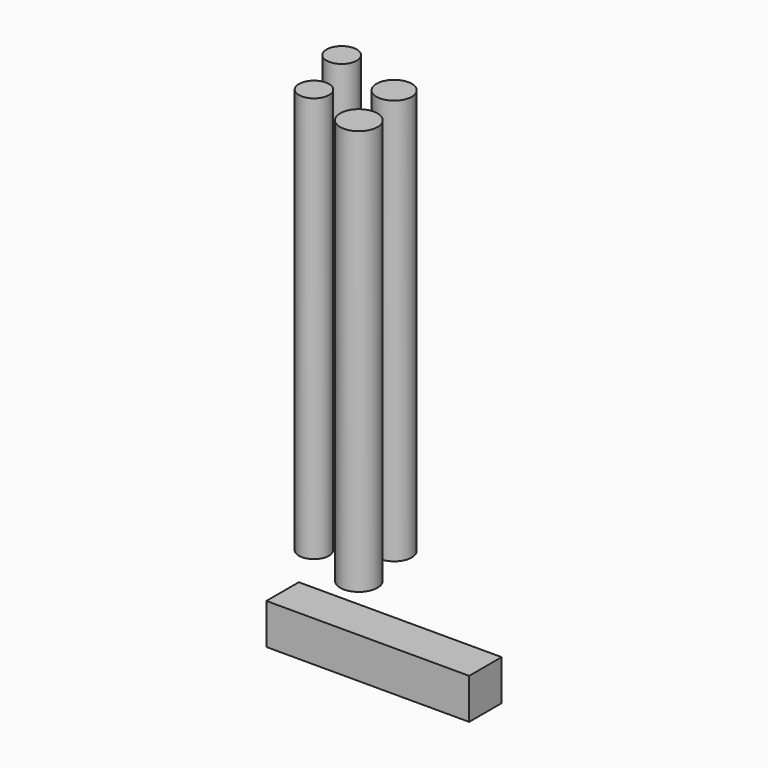
from build123d import *

# Parameters (mm, degrees)
F0_R     = 18.956875
F0_R_2   = 18.846567
F0_R_3   = 22.099257
F0_R_4   = 23.352027
F1_DEPTH = 508
F2_W     = 50.8
F2_H     = 50.8
F3_DEPTH = 254


with BuildPart() as f1:
    # F0 (on Top) → F1 (new body)
    with BuildSketch(Plane.XY):
        with Locations((-55.172775, 45.882516)):
            Circle(F0_R)
        with Locations((-30.714739, -28.060379)):
            Circle(F0_R_2)
        with Locations((31.47313, 19.718105)):
            Circle(F0_R_3)
        with Locations((44.176135, -51.380828)):
            Circle(F0_R_4)
    extrude(amount=F1_DEPTH)


with BuildPart() as f3:
    # F2 (on Right) → F3 (new body)
    with BuildSketch(Plane.YZ):
        with Locations((-115.545075, -25.4)):
            Rectangle(F2_W, F2_H)
    extrude(amount=F3_DEPTH)


solid = Compound([f1.part, f3.part])
